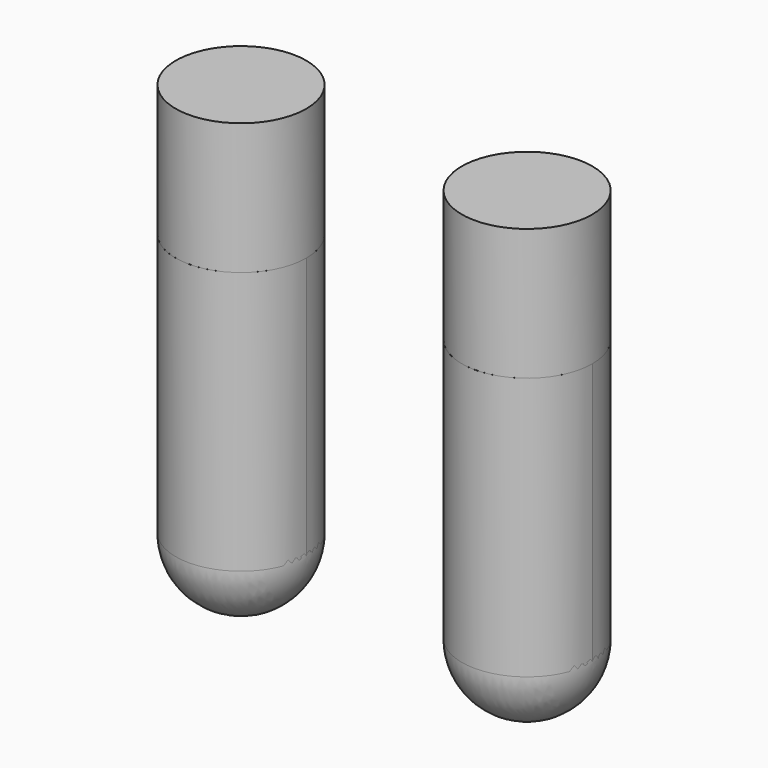
from build123d import *

# Parameters (mm, degrees)
F1_DEPTH  = 50
F1_FACE_R = 12.415021
F3_DEPTH  = 25


with BuildPart() as f1:
    # F0 (on Top) → F1 (new body)
    with BuildSketch(Plane.XY):
        with BuildLine():
            ThreePointArc((-39.616295, 0), (-27.201274, -12.415021), (-14.786254, 0))
            Line((-14.786254, 0), (-27.201274, 0))
            Line((-27.201274, 0), (-39.616295, 0))
        make_face()
        with BuildLine():
            Line((-27.201274, 0), (-14.786254, 0))
            ThreePointArc((-14.786254, 0), (-27.201274, 12.415021), (-39.616295, 0))
            Line((-39.616295, 0), (-27.201274, 0))
        make_face()
        with BuildLine():
            ThreePointArc((39.616295, 0), (27.201274, 12.415021), (14.786254, 0))
            Line((14.786254, 0), (27.201274, 0))
            Line((27.201274, 0), (39.616295, 0))
        make_face()
        with BuildLine():
            Line((27.201274, 0), (14.786254, 0))
            ThreePointArc((14.786254, 0), (27.201274, -12.415021), (39.616295, 0))
            Line((39.616295, 0), (27.201274, 0))
        make_face()
    extrude(amount=F1_DEPTH)


with BuildPart() as f2:
    # F0 (on Top) → F2 (revolve)
    with BuildSketch(Plane.XY):
        with BuildLine():
            ThreePointArc((-39.616295, 0), (-27.201274, -12.415021), (-14.786254, 0))
            Line((-14.786254, 0), (-27.201274, 0))
            Line((-27.201274, 0), (-39.616295, 0))
        make_face()
        with BuildLine():
            Line((27.201274, 0), (14.786254, 0))
            ThreePointArc((14.786254, 0), (27.201274, -12.415021), (39.616295, 0))
            Line((39.616295, 0), (27.201274, 0))
        make_face()
    revolve(axis=Axis((-13.600637, 0, 0), (-1, 0, 0)))


with BuildPart() as f3:
    # F1_face (on face) → F3 (new body)
    with BuildSketch(Plane(origin=(27.201274, 0, 50), x_dir=(1, 0, 0), z_dir=(0, 0, 1))):
        Circle(F1_FACE_R)
        with Locations((-54.402549, 0)):
            Circle(F1_FACE_R)
    extrude(amount=F3_DEPTH)


solid = Compound([f1.part, f2.part, f3.part])
